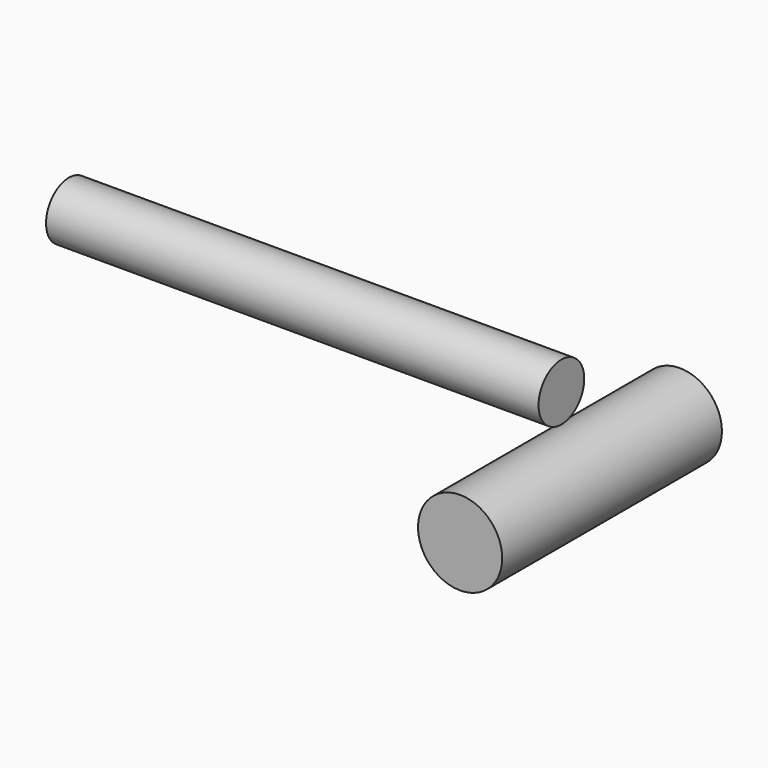
from build123d import *

# Parameters (mm, degrees)
F0_R     = 5.363874
F1_DEPTH = 92.456
F2_R     = 7.898498
F3_DEPTH = 51.562


with BuildPart() as f1:
    # F0 (on Right) → F1 (new body)
    with BuildSketch(Plane.YZ):
        with Locations((-53.697355, 63.549802)):
            Circle(F0_R)
        with Locations((-53.697355, 63.549802)):
            Circle(F0_R)
    extrude(amount=F1_DEPTH)


with BuildPart() as f3:
    # F2 (on Front) → F3 (new body)
    with BuildSketch(Plane.XZ):
        with Locations((71.738452, 31.042427)):
            Circle(F2_R)
        with Locations((71.738452, 31.042427)):
            Circle(F2_R)
    extrude(amount=F3_DEPTH)


solid = Compound([f1.part, f3.part])
